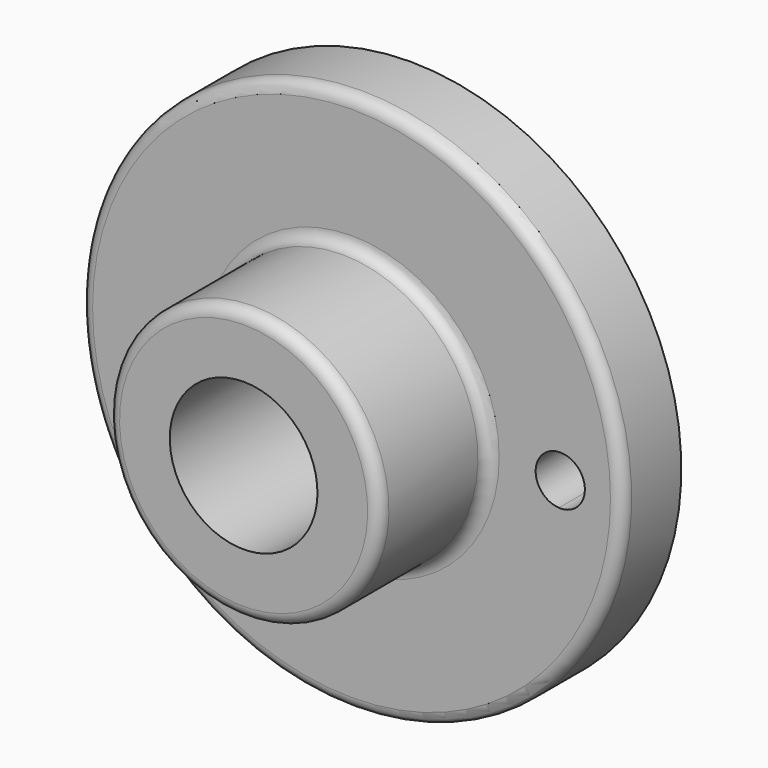
from build123d import *

# Parameters (mm, degrees)
F3_DEPTH = 25.4


with BuildPart() as f1:
    # F0 (on Right) → F1 (revolve)
    with BuildSketch(Plane.YZ):
        with BuildLine():
            Line((-53.848, 19.05), (0, 19.05))
            Line((0, 19.05), (0, 69.85))
            Line((0, 69.85), (-16.002, 69.85))
            ThreePointArc((-16.002, 69.85), (-18.157261, 68.957261), (-19.05, 66.802))
            Line((-19.05, 66.802), (-19.05, 38.1))
            ThreePointArc((-19.05, 38.1), (-19.942739, 35.944739), (-22.098, 35.052))
            Line((-22.098, 35.052), (-50.8, 35.052))
            ThreePointArc((-50.8, 35.052), (-52.955261, 34.159261), (-53.848, 32.004))
            Line((-53.848, 32.004), (-53.848, 19.05))
        make_face()
    revolve(axis=Axis((0, -13.569978, 0), (0, -1, 0)))

    # F2 (on face) → F3 (cut)
    with BuildSketch(Plane.XZ.offset(19.05)):
        with BuildLine():
            ThreePointArc((53.47359, -6.338952), (53.754316, -3.175), (53.848, 0))
            ThreePointArc((53.848, 0), (53.754316, 3.175), (53.47359, 6.338952))
            ThreePointArc((53.47359, 6.338952), (47.498, 0), (53.47359, -6.338952))
        make_face()
        with BuildLine():
            ThreePointArc((53.47359, 6.338952), (53.754316, 3.175), (53.848, 0))
            ThreePointArc((53.848, 0), (53.754316, -3.175), (53.47359, -6.338952))
            ThreePointArc((53.47359, -6.338952), (58.203743, -4.620606), (60.198, 0))
            ThreePointArc((60.198, 0), (58.203743, 4.620606), (53.47359, 6.338952))
        make_face()
    extrude(amount=-F3_DEPTH, mode=Mode.SUBTRACT)


solid = f1.part
